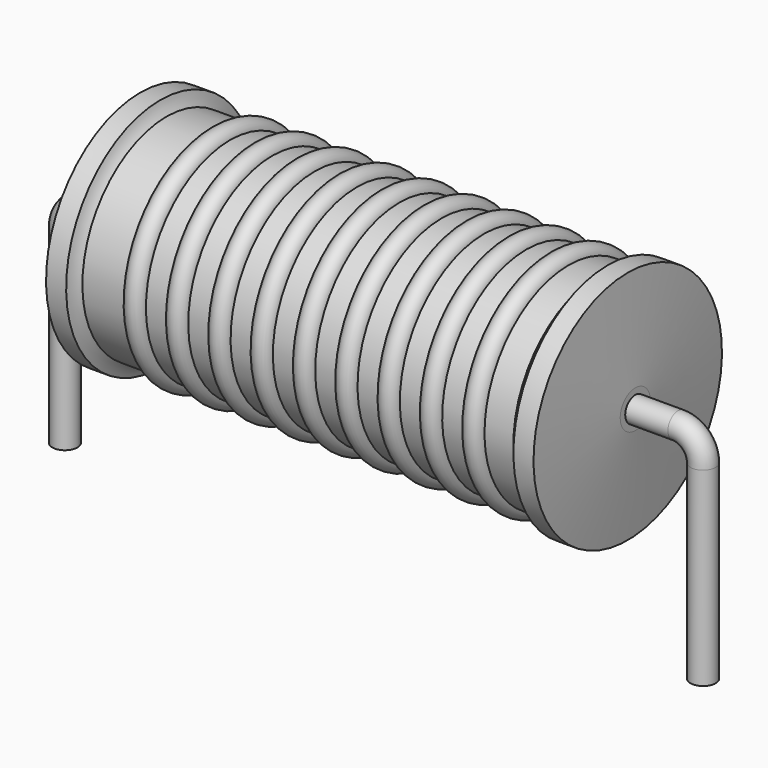
from build123d import *

# Parameters (mm, degrees)
SKETCH_R = 0.4


with BuildPart() as revolution:
    # Sketch002 → Revolution (revolve)
    with BuildSketch(Plane.XZ):
        with BuildLine():
            Line((2.4, 7.6), (3.04, 7.6))
            ThreePointArc((3.04, 7.6), (3.117022, 7.389121), (3.238, 7.2))
            Line((3.238, 7.2), (16.96, 7.2))
            ThreePointArc((16.96, 7.2), (17.140612, 7.38351), (17.28, 7.6))
            Line((17.28, 7.6), (17.92, 7.6))
            ThreePointArc((18.16, 4.45), (18.043886, 6.025296), (17.92, 7.6))
            Line((18.16, 3.85), (18.16, 4.45))
            Line((2.16, 3.85), (18.16, 3.85))
            Line((2.16, 3.85), (2.16, 4.45))
            ThreePointArc((2.4, 7.6), (2.276114, 6.025296), (2.16, 4.45))
        make_face()
    revolve(axis=Axis((2.16, 0, 3.85), (1, 0, 0)))


with BuildPart() as sweep_body:
    # Sweep: sweep along a path in Sketch001
    with BuildLine(Plane.XZ) as sweep_path:
        Line((0, -3), (0, 3.05))
        ThreePointArc((0, 3.05), (0.234311, 3.615682), (0.799989, 3.85))
        Line((0.799989, 3.85), (19.52, 3.85))
        ThreePointArc((19.52, 3.85), (20.085685, 3.615685), (20.32, 3.05))
        Line((20.32, 3.05), (20.32, -3))
    # Sketch → Sweep (sweep)
    with BuildSketch(Plane.XY.offset(-2)):
        Circle(SKETCH_R)
    sweep(path=sweep_path.line)


with BuildPart() as revolution001:
    # Sketch003 → Revolution001 (revolve)
    with BuildSketch(Plane.XZ):
        with BuildLine():
            ThreePointArc((5.267368, 7.136), (4.930526, 7.472842), (4.593684, 7.136))
            Line((3.92, 7.136), (4.593684, 7.136))
            Line((3.92, 7.136), (3.92, 6.386))
            Line((3.92, 6.386), (16.72, 6.386))
            Line((16.72, 6.386), (16.72, 7.136))
            Line((16.046316, 7.136), (16.72, 7.136))
            ThreePointArc((16.046316, 7.136), (15.709474, 7.472842), (15.372632, 7.136))
            Line((14.698947, 7.136), (15.372632, 7.136))
            ThreePointArc((14.698947, 7.136), (14.362105, 7.472842), (14.025263, 7.136))
            Line((13.351579, 7.136), (14.025263, 7.136))
            ThreePointArc((13.351579, 7.136), (13.014737, 7.472842), (12.677895, 7.136))
            Line((12.004211, 7.136), (12.677895, 7.136))
            ThreePointArc((12.004211, 7.136), (11.667368, 7.472842), (11.330526, 7.136))
            Line((10.656842, 7.136), (11.330526, 7.136))
            ThreePointArc((10.656842, 7.136), (10.32, 7.472842), (9.983158, 7.136))
            Line((9.309474, 7.136), (9.983158, 7.136))
            ThreePointArc((9.309474, 7.136), (8.972632, 7.472842), (8.635789, 7.136))
            Line((7.962105, 7.136), (8.635789, 7.136))
            ThreePointArc((7.962105, 7.136), (7.625263, 7.472842), (7.288421, 7.136))
            Line((6.614737, 7.136), (7.288421, 7.136))
            ThreePointArc((6.614737, 7.136), (6.277895, 7.472842), (5.941053, 7.136))
            Line((5.267368, 7.136), (5.941053, 7.136))
        make_face()
    revolve(axis=Axis((2.56, 0, 3.85), (1, 0, 0)))


solid = Compound([revolution.part, sweep_body.part, revolution001.part])
